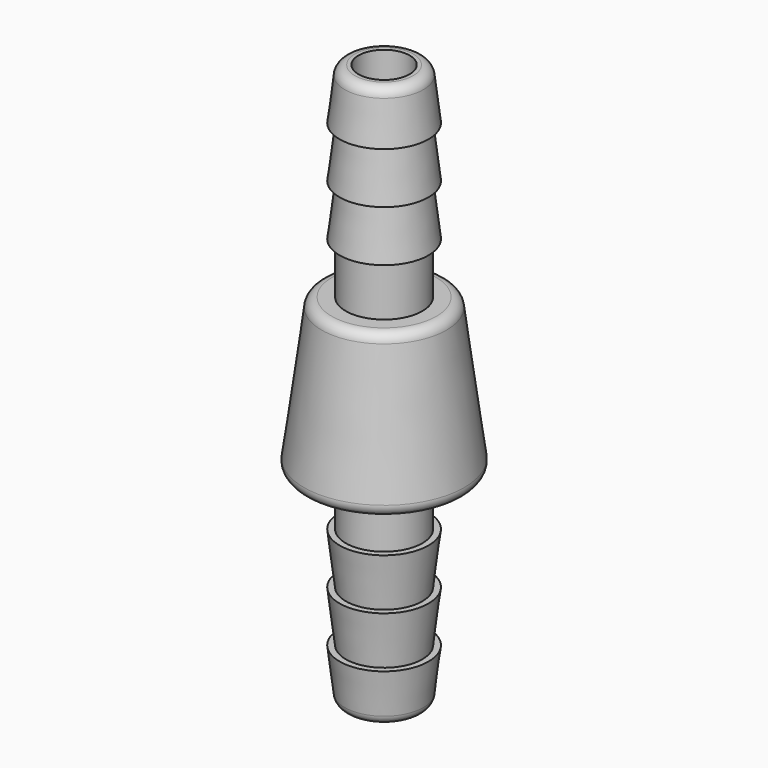
from build123d import *

# Parameters (mm, degrees)
F2_R = 1.27


with BuildPart() as f1:
    # F0 (on Front) → F1 (revolve)
    with BuildSketch(Plane.XZ):
        Polygon((0, 34.925), (0, 25.4), (3.175, 25.4), (4.7625, 25.4), (5.5245, 25.4), (7.62, 25.4), (10.16, 25.4), (8.89, 34.925), align=None)
        Polygon((0, 44.45), (0, 34.925), (8.89, 34.925), (7.62, 44.45), (5.5245, 44.45), (4.7625, 44.45), (4.7625, 50.8), (5.5245, 50.8), (4.7625, 57.15), (5.5245, 57.15), (4.7625, 63.5), (5.5245, 63.5), (4.7625, 69.85), (3.175, 69.85), (3.175, 44.45), align=None)
        Polygon((4.7625, 25.4), (3.175, 25.4), (3.175, 0), (4.7625, 0), (5.5245, 6.35), (4.7625, 6.35), (5.5245, 12.7), (4.7625, 12.7), (5.5245, 19.05), (4.7625, 19.05), align=None)
    revolve(axis=Axis((0, 0, 34.925), (0, 0, 1)))

    # F2
    f2_edges = [f1.edges().sort_by_distance(p)[0] for p in [
        (-10.16, 0, 25.4),
        (-7.62, 0, 44.45),
        (-4.7625, 0, 69.85),
        (-4.7625, 0, 0),
    ]]
    fillet(f2_edges, radius=F2_R)


solid = f1.part
